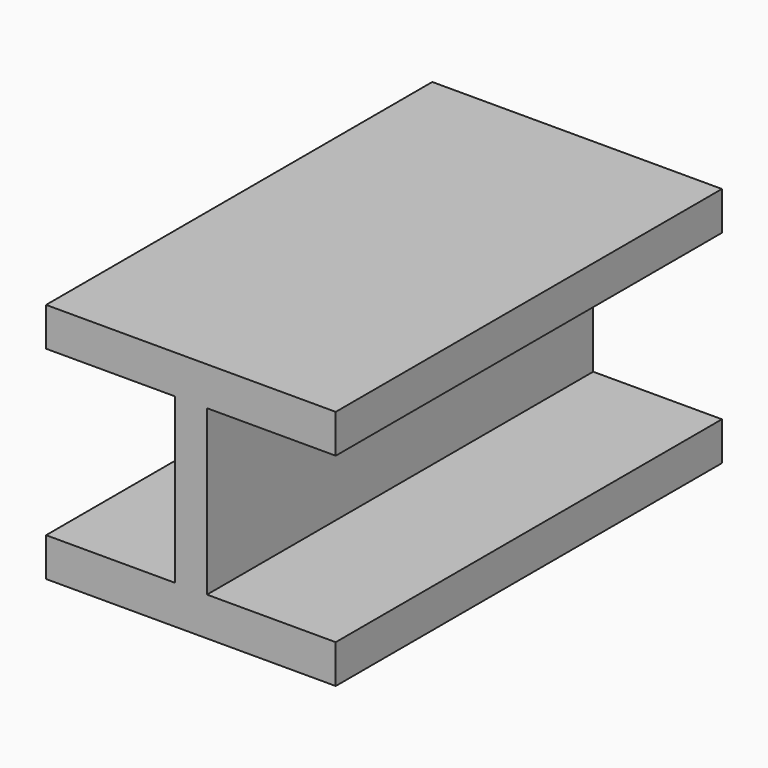
from build123d import *

# Parameters (mm, degrees)
PAD_DEPTH = 150


with BuildPart() as part:
    # Sketch → Pad (new body)
    with BuildSketch(Plane.XZ):
        Polygon((0, 72.009016), (90, 72.009016), (90, 60.009016), (50, 60.009016), (50, 9.009016), (90, 9.009016), (90, -2.990984), (0, -2.990984), (0, 9.009016), (40, 9.009016), (40, 60.009016), (0, 60.009016), align=None)
    extrude(amount=PAD_DEPTH)


solid = part.part
